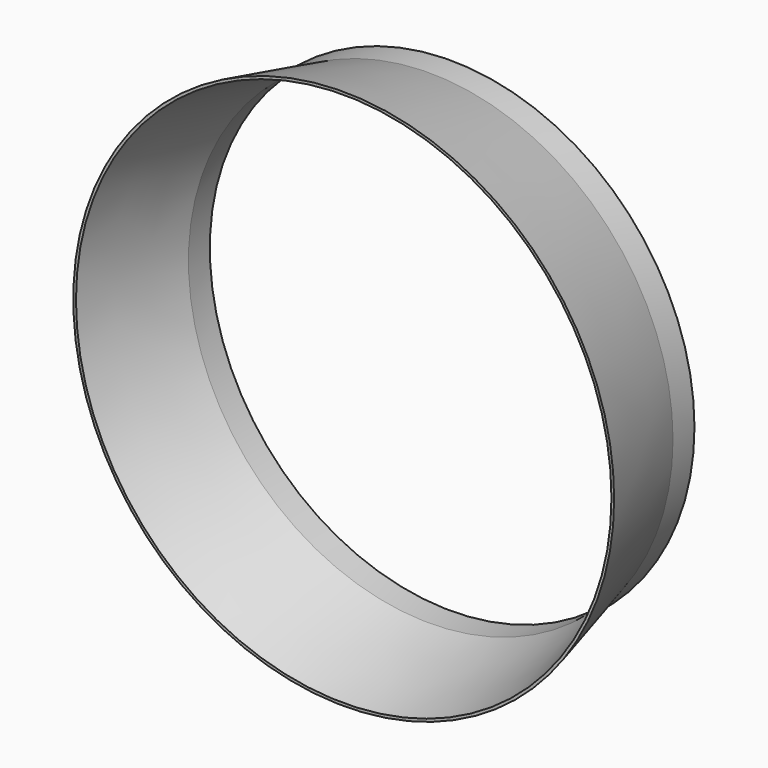
from build123d import *

# Parameters (mm, degrees)
F0_W = 0.127
F0_H = 1.27


with BuildPart() as f1:
    # F0 (on Top) → F1 (revolve)
    with BuildSketch(Plane.XY):
        Polygon((11.557, 66.284232), (11.43, 66.284232), (12.7, 61.204232), (12.827, 61.204232), align=None)
    revolve(axis=Axis((0, 63.744232, 0), (0, 1, 0)))

    # F0 (on Top) → F2 (revolve)
    with BuildSketch(Plane.XY):
        with Locations((11.4935, 66.919232)):
            Rectangle(F0_W, F0_H)
    revolve(axis=Axis((0, 66.919232, 0), (0, -1, 0)))


solid = f1.part
